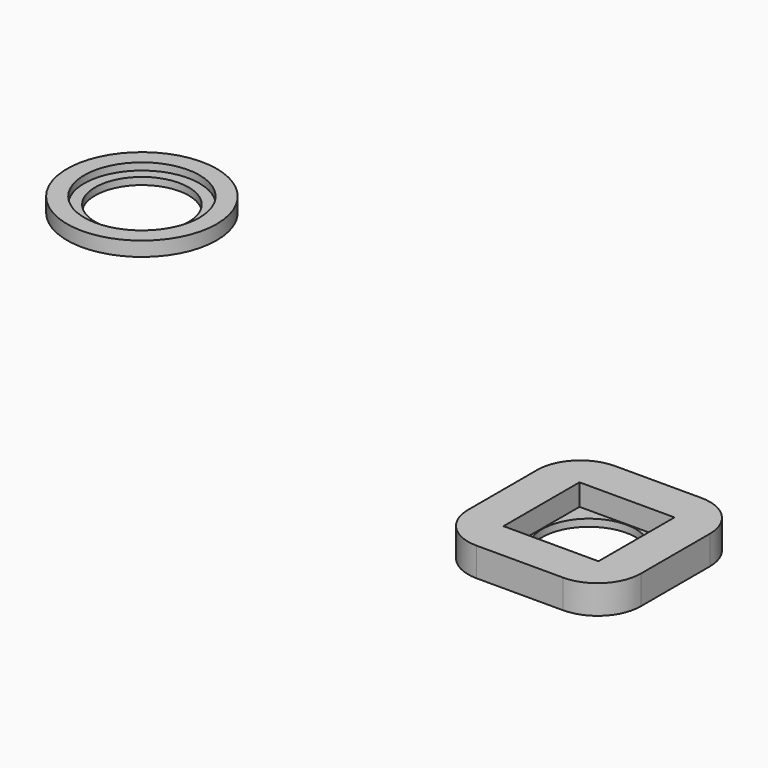
from build123d import *

# Parameters (mm, degrees)
F3_W      = 12
F3_H      = 12
F3_R      = 3.25
F4_DEPTH  = 0.5
F5_W      = 12
F5_H      = 12
F5_W_2    = 6.6
F5_H_2    = 6.6
F6_DEPTH  = 1.5
F7_R      = 3
F8_R      = 5.2
F8_R_2    = 4
F9_DEPTH  = 1
F8_R_3    = 3.25
F10_DEPTH = 0.5


with BuildPart() as f4:
    # F3 (on Top) → F4 (new body)
    with BuildSketch(Plane.XY):
        Rectangle(F3_W, F3_H)
        Circle(F3_R, mode=Mode.SUBTRACT)
    extrude(amount=F4_DEPTH)

    # F5 (on face) → F6 (join)
    with BuildSketch(Plane.XY.offset(0.5)):
        Rectangle(F5_W, F5_H)
        Rectangle(F5_W_2, F5_H_2, mode=Mode.SUBTRACT)
    extrude(amount=F6_DEPTH)

    # F7
    f7_edges = [f4.edges().sort_by_distance(p)[0] for p in [
        (-6, 6, 1),
        (6, 6, 1),
        (6, -6, 1),
        (-6, -6, 1),
    ]]
    fillet(f7_edges, radius=F7_R)


with BuildPart() as f9:
    # F8 (on Top) → F9 (new body)
    with BuildSketch(Plane.XY):
        with Locations((-44.0280437469, 16.2037536502)):
            Circle(F8_R)
        with Locations((-44.0280437469, 16.2037536502)):
            Circle(F8_R_2, mode=Mode.SUBTRACT)
    extrude(amount=F9_DEPTH)

    # F8 (on Top) → F10 (join)
    with BuildSketch(Plane.XY):
        with Locations((-44.0280437469, 16.2037536502)):
            Circle(F8_R_2)
        with Locations((-44.0280437469, 16.2037536502)):
            Circle(F8_R_3, mode=Mode.SUBTRACT)
    extrude(amount=F10_DEPTH)


solid = Compound([f4.part, f9.part])
